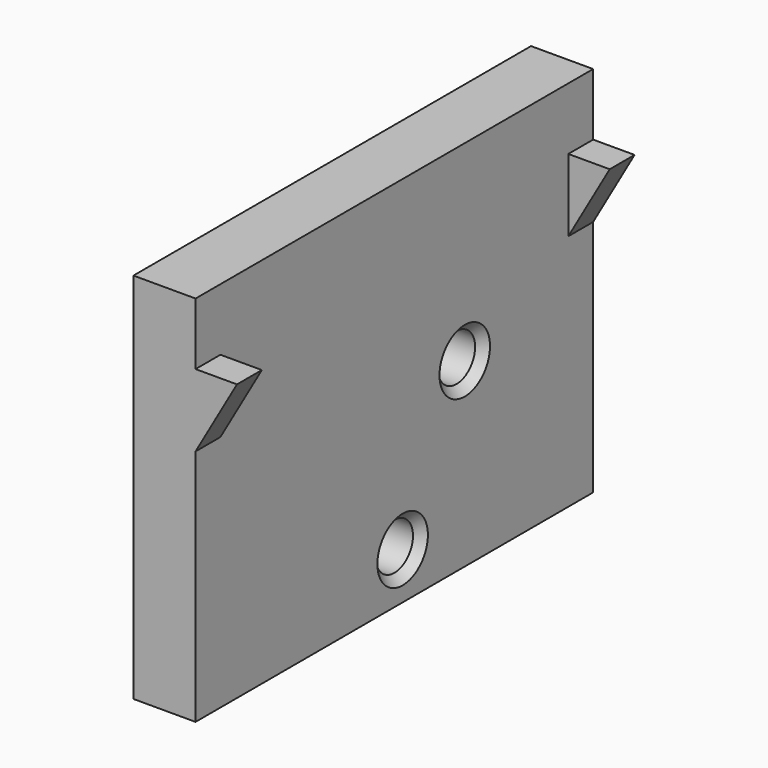
from build123d import *

# Parameters (mm, degrees)
SKETCH020_W         = 6
SKETCH020_H         = 48
PAD007_DEPTH        = 6
PAD007_DEPTH_BACK   = 30
PAD008_DEPTH        = 3
HOLE010_D           = 4.5
HOLE010_DEPTH       = 25
HOLE010_CSINK_D     = 6.1
HOLE010_CSINK_ANGLE = 90


with BuildPart() as part:
    # Sketch020 (on Face1 of Binder013) → Pad007 (new body, two sides)
    with BuildSketch(Plane.XY) as pad007_sk:
        with Locations((-24, 0)):
            Rectangle(SKETCH020_W, SKETCH020_H)
    extrude(amount=PAD007_DEPTH)
    extrude(pad007_sk.sketch, amount=-PAD007_DEPTH_BACK)

    # Sketch021 (on Face3 of Pad007) → Pad008 (join)
    with BuildSketch(Plane.XZ.offset(24)):
        Polygon((-21, 0), (-21, -7), (-17, 0), align=None)
    pad008 = extrude(amount=-PAD008_DEPTH)

    # Mirrored002: Pad008 across XZ
    add(pad008.mirror(Plane.XZ))

    # Hole010
    with Locations(Plane(origin=(-21, 191, 0), x_dir=(0, 1, 0), z_dir=(1, 0, 0))):
        with Locations((-189.999737, -25.501831), (-182.5, -12.5)):
            CounterSinkHole(HOLE010_D / 2, HOLE010_CSINK_D / 2, depth=HOLE010_DEPTH, counter_sink_angle=HOLE010_CSINK_ANGLE)


solid = part.part
